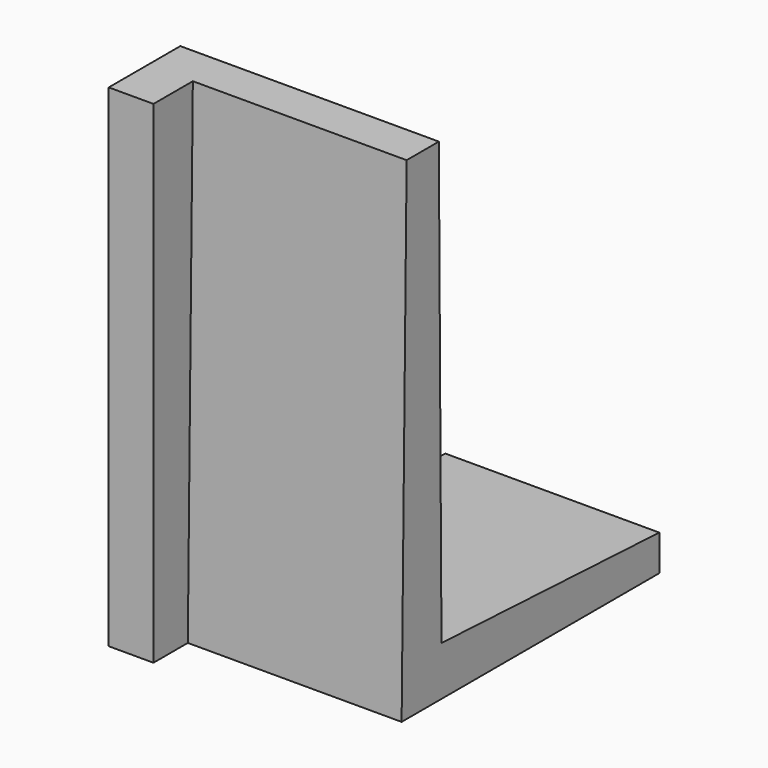
from build123d import *

# Parameters (mm, degrees)
F1_DEPTH = 239
F3_W     = 50
F3_H     = 549.955452
F4_DEPTH = 100
F6_DEPTH = 40


with BuildPart() as f1:
    # F0 (on Right) → F1 (new body)
    with BuildSketch(Plane.YZ):
        Polygon((305, -15.000245), (0.704454, -0.004757), (-3, 494.955207), (-48, 494.955207), (-55, -55.000245), (0, -55.000245), (305, -55.000245), align=None)
    extrude(amount=-F1_DEPTH)

    # F3 (on offset) → F4 (join)
    with BuildSketch(Plane.XZ.offset(103)):
        with Locations((-264, 219.977481)):
            Rectangle(F3_W, F3_H)
    extrude(amount=-F4_DEPTH)

    # F5 (on face) → F6 (cut)
    with BuildSketch(Plane(origin=(-289, 0, 0), x_dir=(0, -1, 0), z_dir=(-1, 0, 0))):
        with BuildLine():
            ThreePointArc((25.068039, 464.955207), (24.482252, 466.369421), (23.068039, 466.955207))
            Line((23.068039, 466.955207), (23.068039, 462.955207))
            ThreePointArc((23.068039, 462.955207), (24.482252, 463.540994), (25.068039, 464.955207))
        make_face()
        with BuildLine():
            ThreePointArc((86.530097, -46.76263), (85.829579, -45.242318), (84.21875, -44.787013))
            Line((84.21875, -44.787013), (84.841444, -48.738247))
            ThreePointArc((84.841444, -48.738247), (86.050409, -48.062111), (86.530097, -46.76263))
        make_face()
        with BuildLine():
            Line((84.841444, -48.738247), (84.21875, -44.787013))
            ThreePointArc((84.21875, -44.787013), (82.55448, -47.073977), (84.841444, -48.738247))
        make_face()
        with BuildLine():
            ThreePointArc((81.802246, -16.76263), (81.101728, -15.242318), (79.490899, -14.787013))
            Line((79.490899, -14.787013), (80.113594, -18.738247))
            ThreePointArc((80.113594, -18.738247), (81.322558, -18.062111), (81.802246, -16.76263))
        make_face()
        with BuildLine():
            Line((80.113594, -18.738247), (79.490899, -14.787013))
            ThreePointArc((79.490899, -14.787013), (77.826629, -17.073977), (80.113594, -18.738247))
        make_face()
        with BuildLine():
            ThreePointArc((75.498446, 23.23737), (74.797927, 24.757682), (73.187098, 25.212987))
            Line((73.187098, 25.212987), (73.809793, 21.261753))
            ThreePointArc((73.809793, 21.261753), (75.018757, 21.937889), (75.498446, 23.23737))
        make_face()
        with BuildLine():
            Line((73.809793, 21.261753), (73.187098, 25.212987))
            ThreePointArc((73.187098, 25.212987), (71.522829, 22.926023), (73.809793, 21.261753))
        make_face()
        with BuildLine():
            ThreePointArc((72.346545, 43.23737), (71.646027, 44.757682), (70.035198, 45.212987))
            Line((70.035198, 45.212987), (70.657893, 41.261753))
            ThreePointArc((70.657893, 41.261753), (71.866857, 41.937889), (72.346545, 43.23737))
        make_face()
        with BuildLine():
            Line((70.657893, 41.261753), (70.035198, 45.212987))
            ThreePointArc((70.035198, 45.212987), (68.370928, 42.926023), (70.657893, 41.261753))
        make_face()
        with BuildLine():
            ThreePointArc((66.042744, 83.23737), (65.342226, 84.757682), (63.731397, 85.212987))
            Line((63.731397, 85.212987), (64.354092, 81.261753))
            ThreePointArc((64.354092, 81.261753), (65.563056, 81.937889), (66.042744, 83.23737))
        make_face()
        with BuildLine():
            Line((64.354092, 81.261753), (63.731397, 85.212987))
            ThreePointArc((63.731397, 85.212987), (62.067127, 82.926023), (64.354092, 81.261753))
        make_face()
        with BuildLine():
            ThreePointArc((59.738943, 123.23737), (59.038425, 124.757682), (57.427596, 125.212987))
            Line((57.427596, 125.212987), (58.050291, 121.261753))
            ThreePointArc((58.050291, 121.261753), (59.259255, 121.937889), (59.738943, 123.23737))
        make_face()
        with BuildLine():
            Line((58.050291, 121.261753), (57.427596, 125.212987))
            ThreePointArc((57.427596, 125.212987), (55.763326, 122.926023), (58.050291, 121.261753))
        make_face()
        with BuildLine():
            ThreePointArc((56.587043, 143.23737), (55.886525, 144.757682), (54.275696, 145.212987))
            Line((54.275696, 145.212987), (54.89839, 141.261753))
            ThreePointArc((54.89839, 141.261753), (56.107355, 141.937889), (56.587043, 143.23737))
        make_face()
        with BuildLine():
            Line((54.89839, 141.261753), (54.275696, 145.212987))
            ThreePointArc((54.275696, 145.212987), (52.611426, 142.926023), (54.89839, 141.261753))
        make_face()
        with BuildLine():
            ThreePointArc((50.283242, 183.23737), (49.582724, 184.757682), (47.971895, 185.212987))
            Line((47.971895, 185.212987), (48.59459, 181.261753))
            ThreePointArc((48.59459, 181.261753), (49.803554, 181.937889), (50.283242, 183.23737))
        make_face()
        with BuildLine():
            Line((48.59459, 181.261753), (47.971895, 185.212987))
            ThreePointArc((47.971895, 185.212987), (46.307625, 182.926023), (48.59459, 181.261753))
        make_face()
        with BuildLine():
            ThreePointArc((43.979441, 223.23737), (43.278923, 224.757682), (41.668094, 225.212987))
            Line((41.668094, 225.212987), (42.290789, 221.261753))
            ThreePointArc((42.290789, 221.261753), (43.499753, 221.937889), (43.979441, 223.23737))
        make_face()
        with BuildLine():
            Line((42.290789, 221.261753), (41.668094, 225.212987))
            ThreePointArc((41.668094, 225.212987), (40.003824, 222.926023), (42.290789, 221.261753))
        make_face()
        with BuildLine():
            ThreePointArc((40.827541, 243.23737), (40.127023, 244.757682), (38.516193, 245.212987))
            Line((38.516193, 245.212987), (39.138888, 241.261753))
            ThreePointArc((39.138888, 241.261753), (40.347853, 241.937889), (40.827541, 243.23737))
        make_face()
        with BuildLine():
            Line((39.138888, 241.261753), (38.516193, 245.212987))
            ThreePointArc((38.516193, 245.212987), (36.851924, 242.926023), (39.138888, 241.261753))
        make_face()
        with BuildLine():
            ThreePointArc((34.52374, 283.23737), (33.823222, 284.757682), (32.212393, 285.212987))
            Line((32.212393, 285.212987), (32.835087, 281.261753))
            ThreePointArc((32.835087, 281.261753), (34.044052, 281.937889), (34.52374, 283.23737))
        make_face()
        with BuildLine():
            Line((32.835087, 281.261753), (32.212393, 285.212987))
            ThreePointArc((32.212393, 285.212987), (30.548123, 282.926023), (32.835087, 281.261753))
        make_face()
        with BuildLine():
            ThreePointArc((28.219939, 323.23737), (27.519421, 324.757682), (25.908592, 325.212987))
            Line((25.908592, 325.212987), (26.531287, 321.261753))
            ThreePointArc((26.531287, 321.261753), (27.740251, 321.937889), (28.219939, 323.23737))
        make_face()
        with BuildLine():
            Line((26.531287, 321.261753), (25.908592, 325.212987))
            ThreePointArc((25.908592, 325.212987), (24.244322, 322.926023), (26.531287, 321.261753))
        make_face()
        with BuildLine():
            ThreePointArc((25.068039, 374.955207), (24.482252, 376.369421), (23.068039, 376.955207))
            Line((23.068039, 376.955207), (23.068039, 372.955207))
            ThreePointArc((23.068039, 372.955207), (24.482252, 373.540994), (25.068039, 374.955207))
        make_face()
        with BuildLine():
            Line((23.068039, 372.955207), (23.068039, 376.955207))
            ThreePointArc((23.068039, 376.955207), (21.068039, 374.955207), (23.068039, 372.955207))
        make_face()
        with BuildLine():
            ThreePointArc((25.068039, 404.955207), (24.482252, 406.369421), (23.068039, 406.955207))
            Line((23.068039, 406.955207), (23.068039, 402.955207))
            ThreePointArc((23.068039, 402.955207), (24.482252, 403.540994), (25.068039, 404.955207))
        make_face()
        with BuildLine():
            Line((23.068039, 402.955207), (23.068039, 406.955207))
            ThreePointArc((23.068039, 406.955207), (21.068039, 404.955207), (23.068039, 402.955207))
        make_face()
        with BuildLine():
            ThreePointArc((25.068039, 434.955207), (24.482252, 436.369421), (23.068039, 436.955207))
            Line((23.068039, 436.955207), (23.068039, 432.955207))
            ThreePointArc((23.068039, 432.955207), (24.482252, 433.540994), (25.068039, 434.955207))
        make_face()
        with BuildLine():
            Line((23.068039, 432.955207), (23.068039, 436.955207))
            ThreePointArc((23.068039, 436.955207), (21.068039, 434.955207), (23.068039, 432.955207))
        make_face()
        with BuildLine():
            Line((23.068039, 462.955207), (23.068039, 466.955207))
            ThreePointArc((23.068039, 466.955207), (21.068039, 464.955207), (23.068039, 462.955207))
        make_face()
    extrude(amount=-F6_DEPTH, mode=Mode.SUBTRACT)


solid = f1.part
